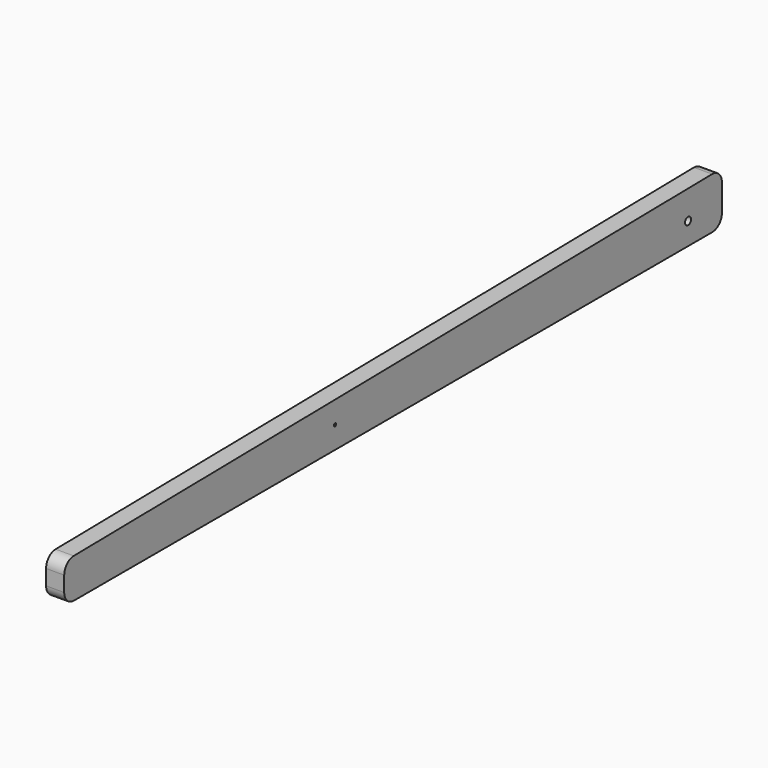
from build123d import *

# Parameters (mm, degrees)
F0_R     = 1.5875
F0_R_2   = 3.96875
F1_DEPTH = 19.05
F2_R     = 1.5875
F3_DEPTH = 52.578


with BuildPart() as f1:
    # F0 (on Right) → F1 (new body)
    with BuildSketch(Plane.YZ):
        with BuildLine():
            Line((414.526317, -10.552206), (414.526317, 17.834656))
            ThreePointArc((414.526317, 17.834656), (410.740304, 26.880696), (401.639572, 30.533283))
            Line((401.639572, 30.533283), (-436.560428, 18.206813))
            ThreePointArc((-436.560428, 18.206813), (-445.419722, 14.422173), (-449.073683, 5.508186))
            Line((-449.073683, 5.508186), (-449.073683, -10.552206))
            ThreePointArc((-449.073683, -10.552206), (-445.353939, -19.532462), (-436.373683, -23.252206))
            Line((-436.373683, -23.252206), (401.826317, -23.252206))
            ThreePointArc((401.826317, -23.252206), (410.806573, -19.532462), (414.526317, -10.552206))
        make_face()
        with Locations((-93.473683, 0)):
            Circle(F0_R, mode=Mode.SUBTRACT)
        with Locations((370.076317, 0)):
            Circle(F0_R_2, mode=Mode.SUBTRACT)
    extrude(amount=F1_DEPTH)

    # F2 (on face) → F3 (cut)
    with BuildSketch(Plane(origin=(0, 0, -23.252206), x_dir=(1, 0, 0), z_dir=(0, 0, -1))):
        with Locations((9.525, -668.526317)):
            Circle(F2_R)
    extrude(amount=-F3_DEPTH, mode=Mode.SUBTRACT)


solid = f1.part
